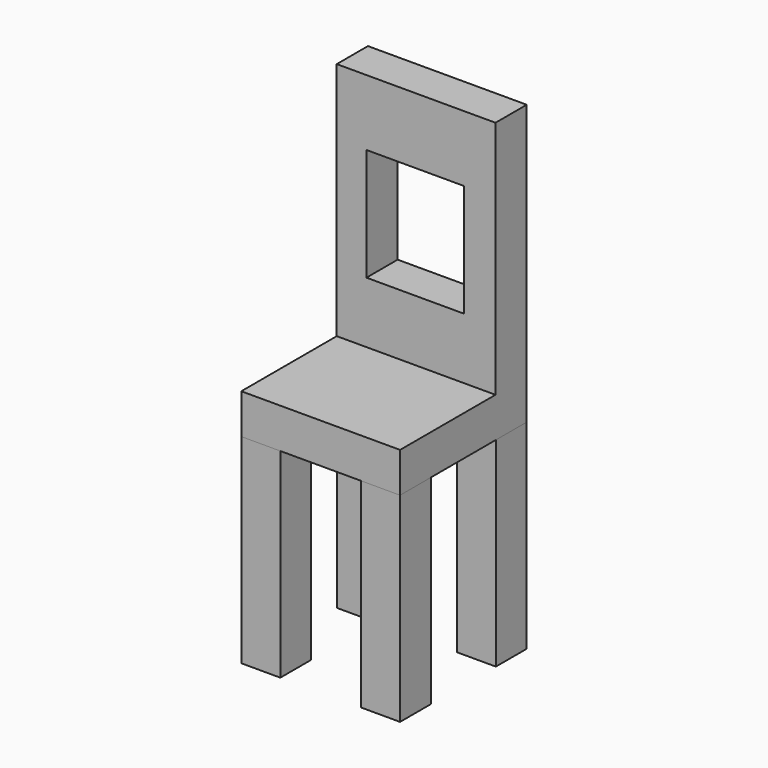
from build123d import *

# Parameters (mm, degrees)
F0_W      = 24.82062
F0_H      = 24.528613
F1_DEPTH  = 127
F5_W      = 101.034529
F5_H      = 100.742519
F6_DEPTH  = 25.4
F7_W      = 101.034529
F7_H      = 24.820622
F8_DEPTH  = 152.4
F9_W      = 62.025264
F9_H      = 71.541786
F10_DEPTH = 101.6


with BuildPart() as f1:
    # F0 (on Top) → F1 (new body)
    with BuildSketch(Plane.XY):
        with Locations((-32.412811, 33.723802)):
            Rectangle(F0_W, F0_H)
    extrude(amount=F1_DEPTH)


with BuildPart() as f2_1:
    # F2: copy of F1
    add(f1.part.moved(Location((76.2, 0, 0))))


with BuildPart() as f3_1:
    # F3: copy of F2_1
    add(f2_1.part.moved(Location((0, -76.2, 0))))


with BuildPart() as f4_1:
    # F4: copy of F3_1
    add(f3_1.part.moved(Location((-76.2, 0, 0))))


with BuildPart() as f6:
    # F5 (on face) → F6 (new body)
    with BuildSketch(Plane.XY.offset(127)):
        with Locations((5.694143, -4.38315)):
            Rectangle(F5_W, F5_H)
    extrude(amount=F6_DEPTH)

    # F7 (on face) → F8 (join)
    with BuildSketch(Plane.XY.offset(152.4)):
        with Locations((5.694143, 33.577798)):
            Rectangle(F7_W, F7_H)
    extrude(amount=F8_DEPTH)

    # F9 (on face) → F10 (cut)
    with BuildSketch(Plane.XZ.offset(-21.167487)):
        with Locations((5.096979, 227.080226)):
            Rectangle(F9_W, F9_H)
    extrude(amount=-F10_DEPTH, mode=Mode.SUBTRACT)


solid = Compound([f1.part, f2_1.part, f3_1.part, f4_1.part, f6.part])
